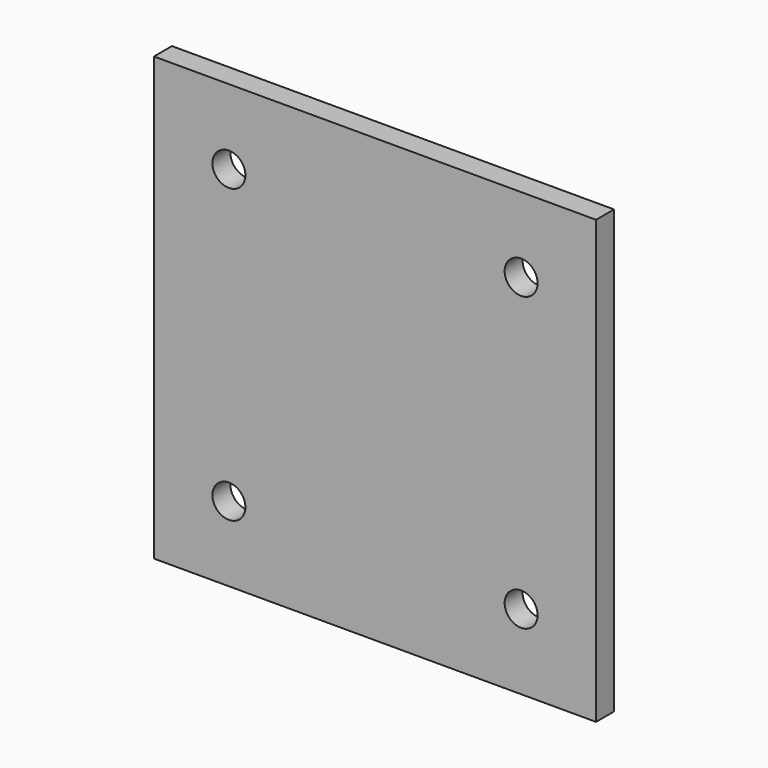
from build123d import *

# Parameters (mm, degrees)
F0_W     = 59
F0_H     = 58.999999
F0_R     = 2.2
F1_DEPTH = 3


with BuildPart() as f1:
    # F0 (on Front) → F1 (new body)
    with BuildSketch(Plane.XZ):
        with Locations((0, 1e-06)):
            Rectangle(F0_W, F0_H)
        with Locations((-19.5, -19.5)):
            Circle(F0_R, mode=Mode.SUBTRACT)
        with Locations((19.5, -19.5)):
            Circle(F0_R, mode=Mode.SUBTRACT)
        with Locations((-19.5, 19.5)):
            Circle(F0_R, mode=Mode.SUBTRACT)
        with Locations((19.5, 19.5)):
            Circle(F0_R, mode=Mode.SUBTRACT)
    extrude(amount=F1_DEPTH)


solid = f1.part
